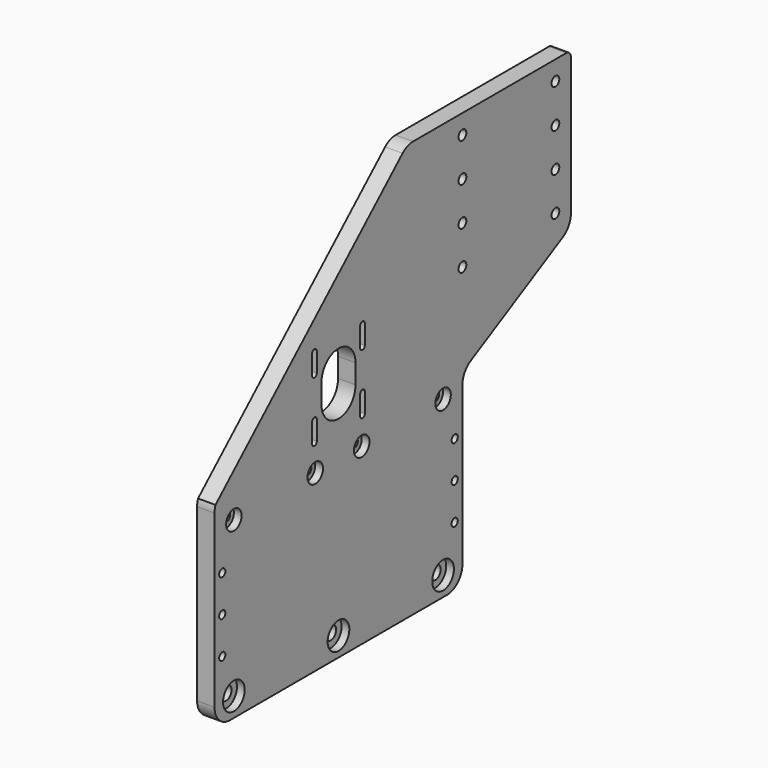
from build123d import *

# Parameters (mm, degrees)
F0_R     = 7
F0_R_2   = 2
F0_R_3   = 5
F0_R_4   = 2.5
F1_DEPTH = 9
F0_R_5   = 3.5
F2_DEPTH = 5


with BuildPart() as f1:
    # F0 (on Right) → F1 (new body)
    with BuildSketch(Plane.YZ):
        with BuildLine():
            ThreePointArc((-80, 10), (-77.071068, 2.928932), (-70, 0))
            Line((-70, 0), (70, 0))
            ThreePointArc((70, 0), (77.071068, 2.928932), (80, 10))
            Line((80, 10), (80, 91.342943))
            ThreePointArc((80, 91.342943), (81.41509, 96.47123), (85.259865, 100.148119))
            Line((85.259865, 100.148119), (144.740135, 132.16843))
            ThreePointArc((144.740135, 132.16843), (148.58491, 135.845319), (150, 140.973606))
            Line((150, 140.973606), (150, 212))
            ThreePointArc((150, 212), (149.12132, 214.12132), (147, 215))
            Line((147, 215), (69.185309, 215))
            Line((69.185309, 215), (48.117153, 215))
            ThreePointArc((48.117153, 215), (44.49154, 214.319599), (41.359301, 212.370986))
            Line((41.359301, 212.370986), (-79.388763, 101.66701))
            ThreePointArc((-79.388763, 101.66701), (-79.846005, 99.972658), (-80, 98.224463))
            Line((-80, 98.224463), (-80, 10))
        make_face()
        with Locations((-67.5, 10)):
            Circle(F0_R, mode=Mode.SUBTRACT)
        with Locations((-75, 31)):
            Circle(F0_R_2, mode=Mode.SUBTRACT)
        with Locations((-75, 50)):
            Circle(F0_R_2, mode=Mode.SUBTRACT)
        with Locations((0, 10)):
            Circle(F0_R, mode=Mode.SUBTRACT)
        with Locations((-75, 69)):
            Circle(F0_R_2, mode=Mode.SUBTRACT)
        with Locations((-67.5, 90)):
            Circle(F0_R_3, mode=Mode.SUBTRACT)
        with Locations((-15, 90)):
            Circle(F0_R_3, mode=Mode.SUBTRACT)
        with Locations((15, 90)):
            Circle(F0_R_3, mode=Mode.SUBTRACT)
        with Locations((67.5, 10)):
            Circle(F0_R, mode=Mode.SUBTRACT)
        with Locations((75, 31)):
            Circle(F0_R_2, mode=Mode.SUBTRACT)
        with Locations((75, 50)):
            Circle(F0_R_2, mode=Mode.SUBTRACT)
        with Locations((75, 69)):
            Circle(F0_R_2, mode=Mode.SUBTRACT)
        with Locations((67.5, 90)):
            Circle(F0_R_3, mode=Mode.SUBTRACT)
        with BuildLine():
            ThreePointArc((-14, 104), (-15.5, 102.5), (-17, 104))
            Line((-17, 104), (-17, 114))
            ThreePointArc((-17, 114), (-15.5, 115.5), (-14, 114))
            Line((-14, 114), (-14, 104))
        make_face(mode=Mode.SUBTRACT)
        with BuildLine():
            ThreePointArc((-11, 129.5), (0, 140.5), (11, 129.5))
            Line((11, 129.5), (11, 119.5))
            ThreePointArc((11, 119.5), (0, 108.5), (-11, 119.5))
            Line((-11, 119.5), (-11, 129.5))
        make_face(mode=Mode.SUBTRACT)
        with BuildLine():
            Line((17, 114), (17, 104))
            ThreePointArc((17, 104), (15.5, 102.5), (14, 104))
            Line((14, 104), (14, 114))
            ThreePointArc((14, 114), (15.5, 115.5), (17, 114))
        make_face(mode=Mode.SUBTRACT)
        with BuildLine():
            ThreePointArc((-17, 145), (-15.5, 146.5), (-14, 145))
            Line((-14, 145), (-14, 135))
            ThreePointArc((-14, 135), (-15.5, 133.5), (-17, 135))
            Line((-17, 135), (-17, 145))
        make_face(mode=Mode.SUBTRACT)
        with BuildLine():
            Line((14, 135), (14, 145))
            ThreePointArc((14, 145), (15.5, 146.5), (17, 145))
            Line((17, 145), (17, 135))
            ThreePointArc((17, 135), (15.5, 133.5), (14, 135))
        make_face(mode=Mode.SUBTRACT)
        with Locations((80, 145)):
            Circle(F0_R_4, mode=Mode.SUBTRACT)
        with Locations((140, 145)):
            Circle(F0_R_4, mode=Mode.SUBTRACT)
        with Locations((80, 165)):
            Circle(F0_R_4, mode=Mode.SUBTRACT)
        with Locations((80, 185)):
            Circle(F0_R_4, mode=Mode.SUBTRACT)
        with Locations((80, 205)):
            Circle(F0_R_4, mode=Mode.SUBTRACT)
        with Locations((140, 165)):
            Circle(F0_R_4, mode=Mode.SUBTRACT)
        with Locations((140, 185)):
            Circle(F0_R_4, mode=Mode.SUBTRACT)
        with Locations((140, 205)):
            Circle(F0_R_4, mode=Mode.SUBTRACT)
    extrude(amount=F1_DEPTH)

    # F0 (on Right) → F2 (join)
    with BuildSketch(Plane.YZ):
        with Locations((-67.5, 90)):
            Circle(F0_R_3)
        with Locations((-67.5, 90)):
            Circle(F0_R_4, mode=Mode.SUBTRACT)
        with Locations((-15, 90)):
            Circle(F0_R_3)
        with Locations((-15, 90)):
            Circle(F0_R_4, mode=Mode.SUBTRACT)
        with Locations((15, 90)):
            Circle(F0_R_3)
        with Locations((15, 90)):
            Circle(F0_R_4, mode=Mode.SUBTRACT)
        with Locations((67.5, 90)):
            Circle(F0_R_3)
        with Locations((67.5, 90)):
            Circle(F0_R_4, mode=Mode.SUBTRACT)
        with Locations((67.5, 10)):
            Circle(F0_R)
        with Locations((67.5, 10)):
            Circle(F0_R_5, mode=Mode.SUBTRACT)
        with Locations((0, 10)):
            Circle(F0_R)
        with Locations((0, 10)):
            Circle(F0_R_5, mode=Mode.SUBTRACT)
        with Locations((-67.5, 10)):
            Circle(F0_R)
        with Locations((-67.5, 10)):
            Circle(F0_R_5, mode=Mode.SUBTRACT)
    extrude(amount=F2_DEPTH)


solid = f1.part
